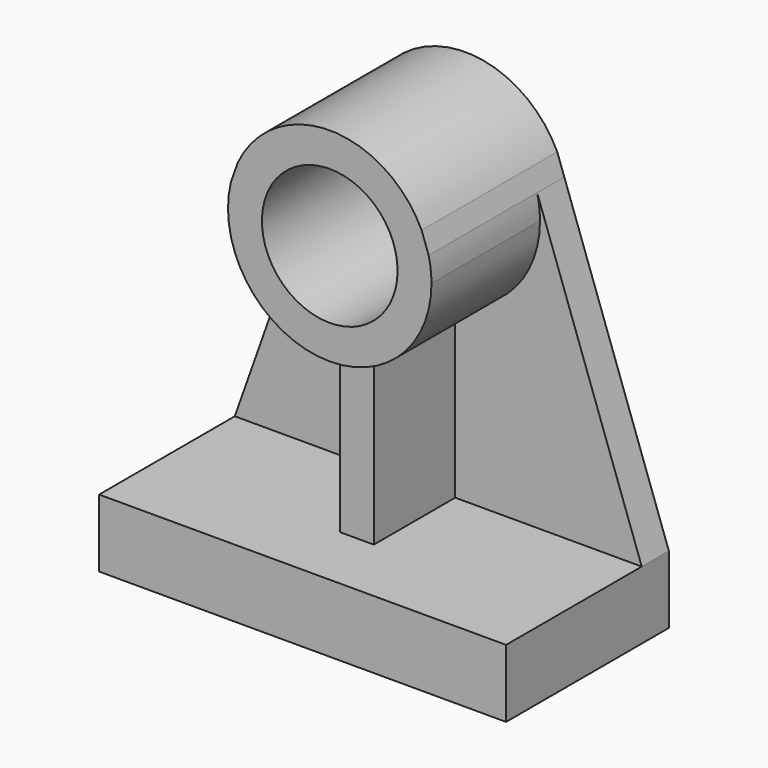
from build123d import *

# Parameters (mm, degrees)
F1_DEPTH = 25.4
F0_W     = 304.8
F0_H     = 50.8
F2_DEPTH = 152.4
F0_R     = 50.8
F3_DEPTH = 127
F4_W     = 76.2
F4_H     = 139.571316
F5_DEPTH = 12.7


with BuildPart() as f1:
    # F0 (on Front) → F1 (new body)
    with BuildSketch(Plane.XZ):
        with BuildLine():
            Line((-74.069707, 34.275554), (-152.4, -186.816301))
            Line((-152.4, -186.816301), (152.4, -186.816301))
            Line((152.4, -186.816301), (74.069707, 34.275554))
            ThreePointArc((74.069707, 34.275554), (75.665553, 25.392814), (76.2, 16.383699))
            ThreePointArc((76.2, 16.383699), (-9.009115, -59.281853), (-74.069707, 34.275554))
        make_face()
    extrude(amount=F1_DEPTH)

    # F0 (on Front) → F2 (join)
    with BuildSketch(Plane.XZ):
        with Locations((0, -212.216301)):
            Rectangle(F0_W, F0_H)
    extrude(amount=F2_DEPTH)

    # F0 (on Front) → F3 (join)
    with BuildSketch(Plane.XZ):
        with BuildLine():
            Line((-68.812805, 49.11347), (-74.069707, 34.275554))
            ThreePointArc((-74.069707, 34.275554), (-9.009115, -59.281853), (76.2, 16.383699))
            ThreePointArc((76.2, 16.383699), (75.665553, 25.392814), (74.069707, 34.275554))
            Line((74.069707, 34.275554), (68.812805, 49.11347))
            ThreePointArc((68.812805, 49.11347), (0, 92.583699), (-68.812805, 49.11347))
        make_face()
        with Locations((0, 16.383699)):
            Circle(F0_R, mode=Mode.SUBTRACT)
    extrude(amount=F3_DEPTH)

    # F4 (on Right) → F5 (join, symmetric)
    with BuildSketch(Plane.YZ):
        with Locations((-63.5, -117.019369)):
            Rectangle(F4_W, F4_H)
    extrude(amount=F5_DEPTH, both=True)


solid = f1.part
